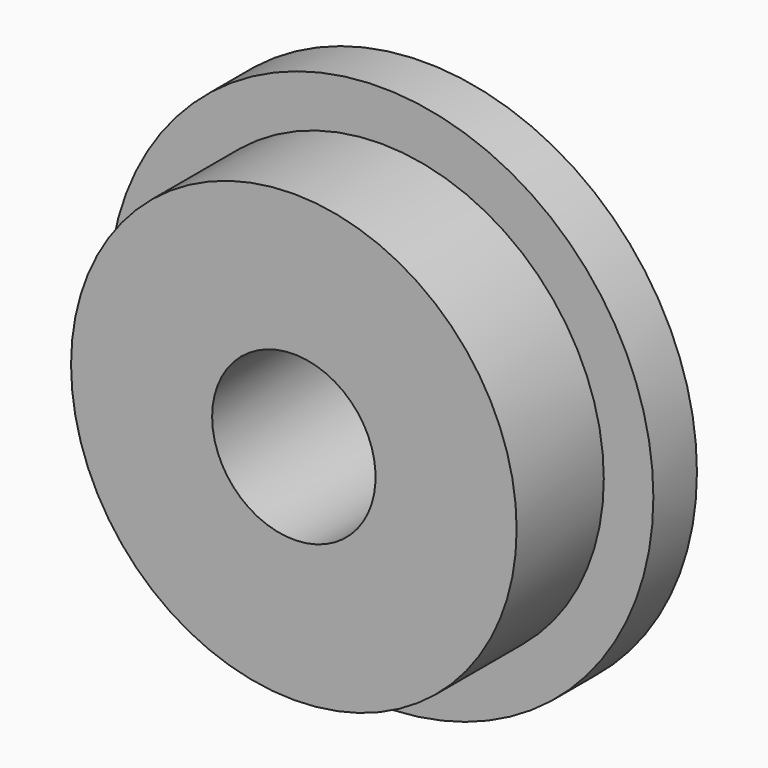
from build123d import *

# Parameters (mm, degrees)
F0_R     = 25.9715
F1_DEPTH = 12.7
F2_R     = 31.75
F3_DEPTH = 6.35
F4_R     = 9.525
F5_DEPTH = 19.05


with BuildPart() as f1:
    # F0 (on Front) → F1 (new body)
    with BuildSketch(Plane.XZ):
        Circle(F0_R)
    extrude(amount=F1_DEPTH)

    # F2 (on face) → F3 (join)
    with BuildSketch(Plane(origin=(0, 0, 0), x_dir=(-1, 0, 0), z_dir=(0, 1, 0))):
        Circle(F2_R)
    extrude(amount=F3_DEPTH)

    # F4 (on face) → F5 (cut, through all)
    with BuildSketch(Plane(origin=(0, 6.35, 0), x_dir=(-1, 0, 0), z_dir=(0, 1, 0))):
        Circle(F4_R)
    extrude(amount=-F5_DEPTH, mode=Mode.SUBTRACT)


solid = f1.part
